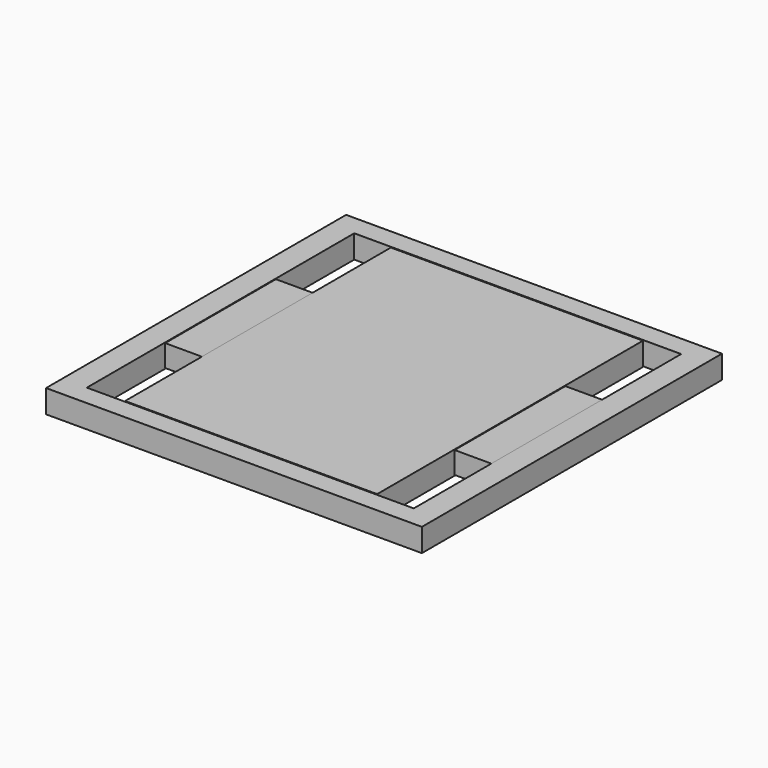
from build123d import *

# Parameters (mm, degrees)
F0_W     = 152.3119062185
F0_H     = 152.0035862923
F1_DEPTH = 9.144
F2_W     = 132.5059980154
F2_H     = 135.4796290398
F3_DEPTH = 25.4
F4_W     = 102.152980864
F4_H     = 134.6293836832
F5_DEPTH = 9.144
F6_W     = 18.0096440017
F6_H     = 56.0955740511
F6_W_2   = 102.152980864
F7_DEPTH = 8.89
F8_DEPTH = 0.254
F9_DEPTH = 0.254


with BuildPart() as f1:
    # F0 (on Top) → F1 (new body)
    with BuildSketch(Plane.XY):
        Rectangle(F0_W, F0_H)
    extrude(amount=F1_DEPTH)

    # F2 (on face) → F3 (cut)
    with BuildSketch(Plane.XY.offset(9.144)):
        Rectangle(F2_W, F2_H)
    extrude(amount=-F3_DEPTH, mode=Mode.SUBTRACT)


with BuildPart() as f5:
    # F4 (on Top) → F5 (new body)
    with BuildSketch(Plane.XY):
        Rectangle(F4_W, F4_H)
    extrude(amount=F5_DEPTH)


with BuildPart() as f7:
    # F6 (on face) → F7 (new body)
    with BuildSketch(Plane.XY.offset(9.144)):
        with Locations((-60.0813124329, 0)):
            Rectangle(F6_W, F6_H)
        with Locations((60.0813124329, 0)):
            Rectangle(F6_W, F6_H)
        Rectangle(F6_W_2, F6_H)
    extrude(amount=-F7_DEPTH)


with BuildPart() as f8:
    # F8 (new): a face of the model
    f8_faces = [f1.part.faces().sort_by_distance(p)[0] for p in [
        (74.0041165211, 0, 9.144),
    ]]
    extrude(f8_faces, amount=F8_DEPTH)


with BuildPart() as f9:
    # F9 (new): a face of the model
    f9_faces = [f5.part.faces().sort_by_distance(p)[0] for p in [
        (0, 0, 9.144),
    ]]
    extrude(f9_faces, amount=F9_DEPTH)


solid = Compound([f1.part, f5.part, f7.part, f8.part, f9.part])
